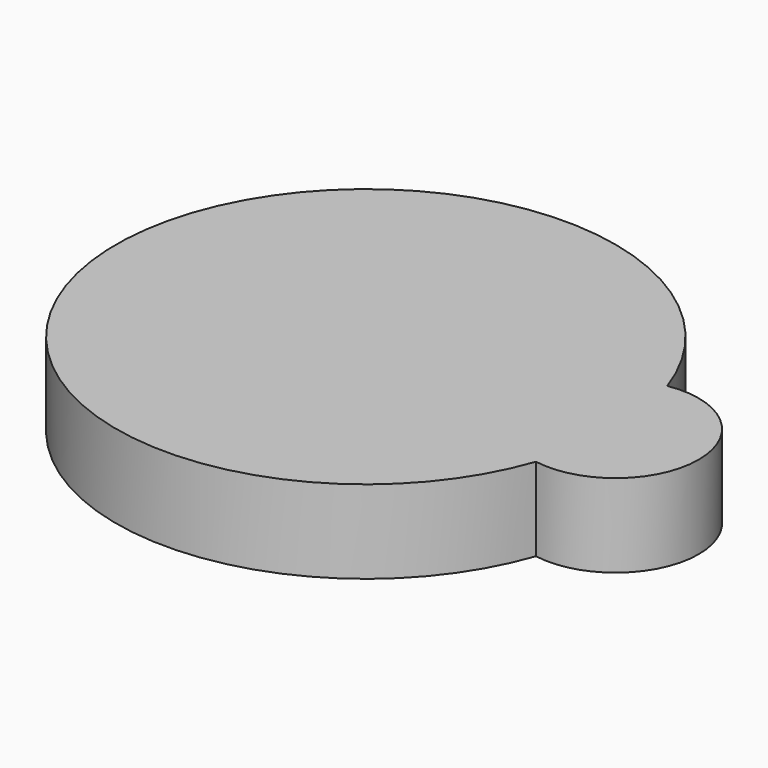
from build123d import *

# Parameters (mm, degrees)
F1_DEPTH = 6.35


with BuildPart() as f1:
    # F0 (on Top) → F1 (new body)
    with BuildSketch(Plane.XY):
        with BuildLine():
            ThreePointArc((17.991667, -6.261184), (18.783553, -3.175), (19.05, 0))
            ThreePointArc((19.05, 0), (18.783553, 3.175), (17.991667, 6.261184))
            ThreePointArc((17.991667, 6.261184), (-19.05, 0), (17.991667, -6.261184))
        make_face()
        with BuildLine():
            ThreePointArc((17.991667, 6.261184), (18.783553, 3.175), (19.05, 0))
            ThreePointArc((19.05, 0), (18.783553, -3.175), (17.991667, -6.261184))
            ThreePointArc((17.991667, -6.261184), (25.4, 0), (17.991667, 6.261184))
        make_face()
    extrude(amount=-F1_DEPTH)


solid = f1.part
